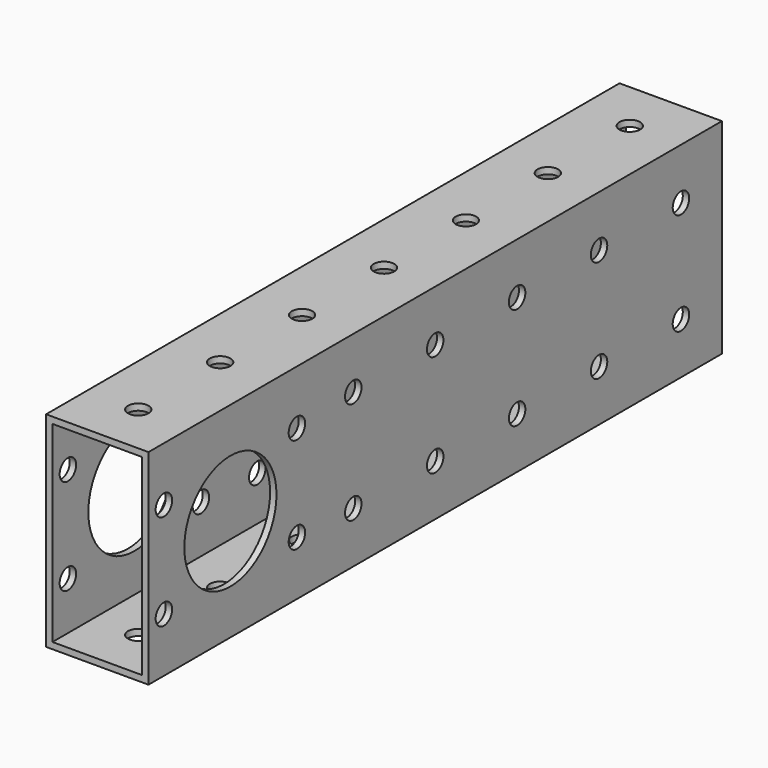
from build123d import *

# Parameters (mm, degrees)
F0_W     = 177.8
F0_H     = 50.8
F0_R     = 2.5527
F0_R_2   = 14.2875
F1_DEPTH = 25.4
F2_W     = 22.225
F2_H     = 47.625
F3_DEPTH = 177.801
F4_R     = 2.5527
F5_DEPTH = 50.801


with BuildPart() as f1:
    # F0 (on Right) → F1 (new body)
    with BuildSketch(Plane.YZ):
        Rectangle(F0_W, F0_H)
        with Locations((-25.4, -12.7)):
            Circle(F0_R, mode=Mode.SUBTRACT)
        with Locations((-84.12223, -11.90625)):
            Circle(F0_R, mode=Mode.SUBTRACT)
        with Locations((-63.5, 0)):
            Circle(F0_R_2, mode=Mode.SUBTRACT)
        with Locations((-42.87777, -11.90625)):
            Circle(F0_R, mode=Mode.SUBTRACT)
        with Locations((0, -12.7)):
            Circle(F0_R, mode=Mode.SUBTRACT)
        with Locations((25.4, -12.7)):
            Circle(F0_R, mode=Mode.SUBTRACT)
        with Locations((50.8, -12.7)):
            Circle(F0_R, mode=Mode.SUBTRACT)
        with Locations((76.2, -12.7)):
            Circle(F0_R, mode=Mode.SUBTRACT)
        with Locations((-84.12223, 11.90625)):
            Circle(F0_R, mode=Mode.SUBTRACT)
        with Locations((-42.87777, 11.90625)):
            Circle(F0_R, mode=Mode.SUBTRACT)
        with Locations((-25.4, 12.7)):
            Circle(F0_R, mode=Mode.SUBTRACT)
        with Locations((0, 12.7)):
            Circle(F0_R, mode=Mode.SUBTRACT)
        with Locations((25.4, 12.7)):
            Circle(F0_R, mode=Mode.SUBTRACT)
        with Locations((50.8, 12.7)):
            Circle(F0_R, mode=Mode.SUBTRACT)
        with Locations((76.2, 12.7)):
            Circle(F0_R, mode=Mode.SUBTRACT)
    extrude(amount=F1_DEPTH)

    # F2 (on face) → F3 (cut, through all)
    with BuildSketch(Plane.XZ.offset(88.9)):
        with Locations((12.7, 0)):
            Rectangle(F2_W, F2_H)
    extrude(amount=-F3_DEPTH, mode=Mode.SUBTRACT)

    # F4 (on face) → F5 (cut, through all)
    with BuildSketch(Plane.XY.offset(25.4)):
        with Locations((12.7, 76.2)):
            Circle(F4_R)
        with Locations((12.7, 50.8)):
            Circle(F4_R)
        with Locations((12.7, 25.4)):
            Circle(F4_R)
        with Locations((12.7, 0)):
            Circle(F4_R)
        with Locations((12.7, -25.4)):
            Circle(F4_R)
        with Locations((12.7, -50.8)):
            Circle(F4_R)
        with Locations((12.7, -76.2)):
            Circle(F4_R)
        with Locations((12.7, -101.6)):
            Circle(F4_R)
        with Locations((12.7, -127)):
            Circle(F4_R)
    extrude(amount=-F5_DEPTH, mode=Mode.SUBTRACT)


solid = f1.part
